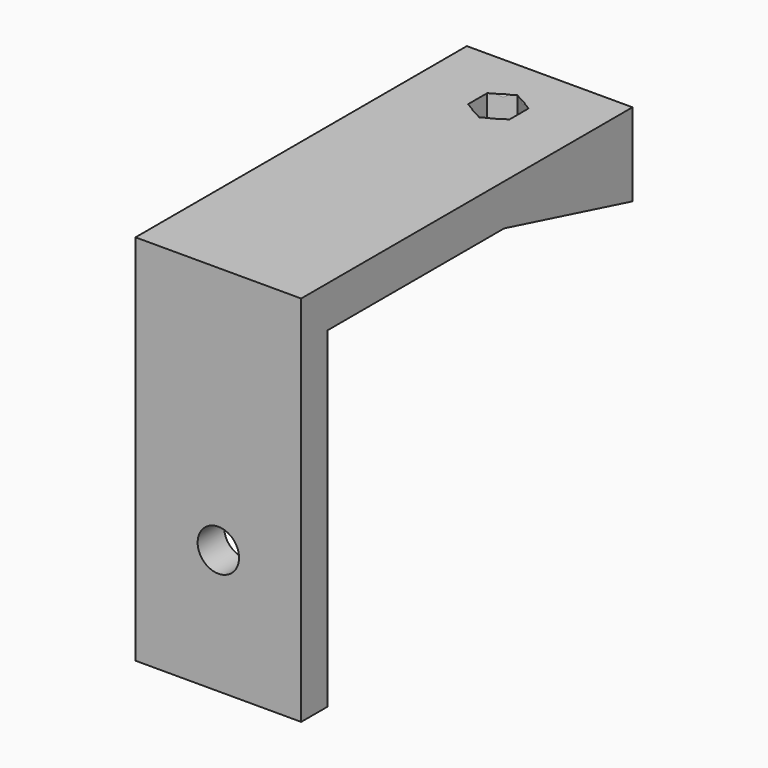
from build123d import *

# Parameters (mm, degrees)
F0_W     = 4
F0_H     = 40
F1_DEPTH = 20
F2_R     = 2.5
F3_DEPTH = 5
F4_R     = 2.5
F5_DEPTH = 10
F7_DEPTH = 4


with BuildPart() as f1:
    # F0 (on Right) → F1 (new body)
    with BuildSketch(Plane.YZ):
        Polygon((27.6797143764, -5), (27.6797143764, 0), (8.3147976454, 0), align=None)
        Polygon((8.3147976454, 0), (27.6797143764, 0), (27.6797143764, 5), (-22.3202856236, 5), (-22.3202856236, 0), (-18.3202856236, 0), align=None)
        with Locations((-20.3202856236, -20)):
            Rectangle(F0_W, F0_H)
    extrude(amount=F1_DEPTH)

    # F2 (on face) → F3 (cut)
    with BuildSketch(Plane.XZ.offset(22.3202856236)):
        with Locations((10, -25)):
            Circle(F2_R)
    extrude(amount=-F3_DEPTH, mode=Mode.SUBTRACT)

    # F4 (on face) → F5 (cut)
    with BuildSketch(Plane(origin=(0, 0.5196748528, 2.0126920505), x_dir=(1, 0, 0), z_dir=(0, -0.25, -0.9682458366))):
        with Locations((10, -18.0507682019)):
            Circle(F4_R)
    extrude(amount=-F5_DEPTH, mode=Mode.SUBTRACT)

    # F6 (on face) → F7 (cut)
    with BuildSketch(Plane.XY.offset(5)):
        Polygon((12.5, 18.4903720111), (12.5, 21.377123357), (10, 22.82049903), (7.5, 21.377123357), (7.5, 18.4903720111), (10, 17.0469963381), align=None)
    extrude(amount=-F7_DEPTH, mode=Mode.SUBTRACT)


solid = f1.part
